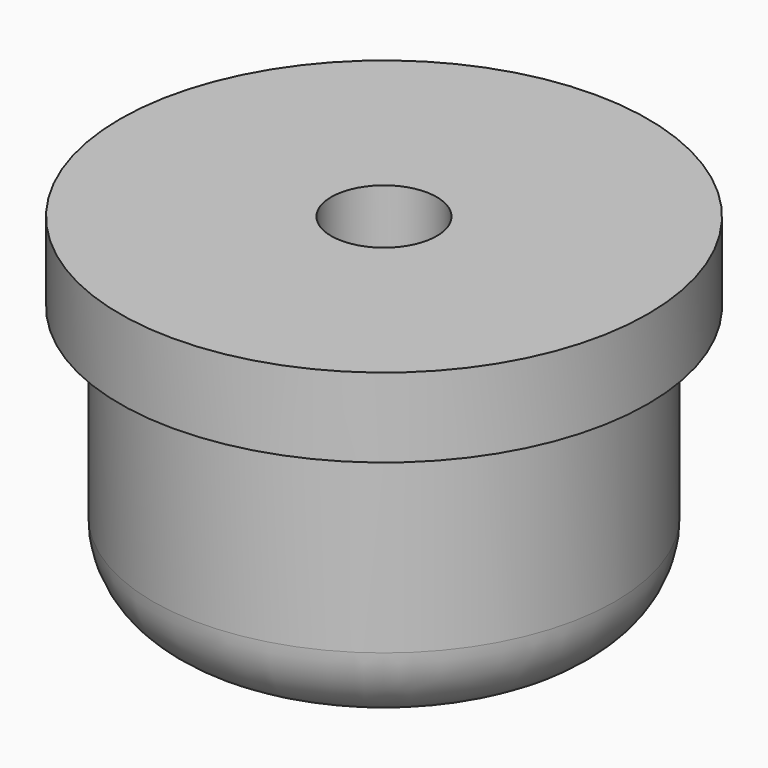
from build123d import *

# Parameters (mm, degrees)
F0_R     = 10
F1_DEPTH = 3
F2_R     = 8.75
F3_DEPTH = 10
F4_R     = 3
F6_D     = 4


with BuildPart() as f1:
    # F0 (on Top) → F1 (new body)
    with BuildSketch(Plane.XY):
        Circle(F0_R)
    extrude(amount=F1_DEPTH)

    # F2 (on face) → F3 (join)
    with BuildSketch(Plane(origin=(0, 0, 0), x_dir=(1, 0, 0), z_dir=(0, 0, -1))):
        Circle(F2_R)
    extrude(amount=F3_DEPTH)

    # F4
    f4_edges = [f1.edges().sort_by_distance(p)[0] for p in [
        (-8.75, 0, -10),
    ]]
    fillet(f4_edges, radius=F4_R)

    # F6 (through all)
    with Locations(Plane(origin=(0, 0, -10), x_dir=(1, 0, 0), z_dir=(0, 0, -1))):
        with Locations((0, 0)):
            Hole(F6_D / 2)


solid = f1.part
